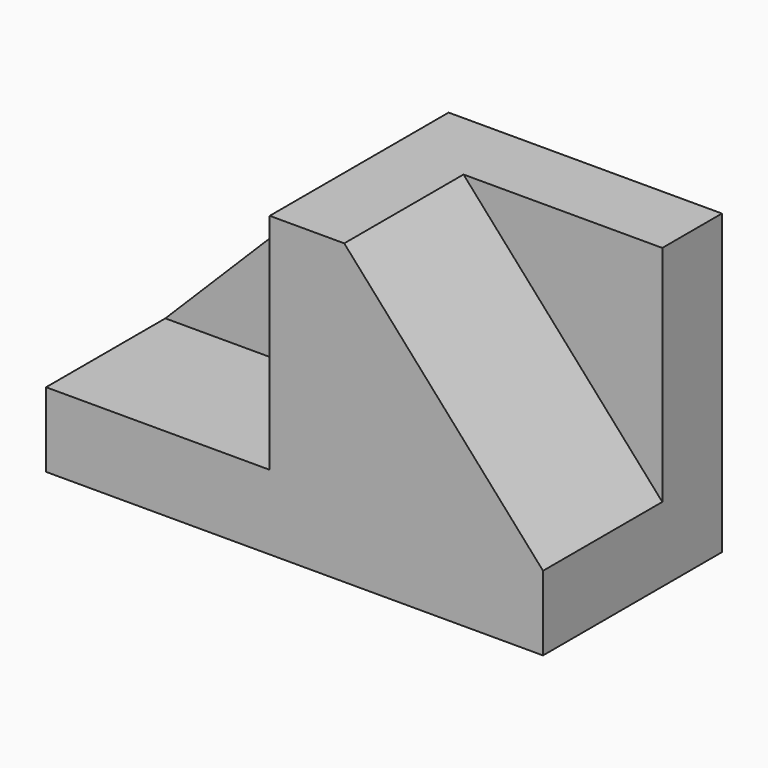
from build123d import *

# Parameters (mm, degrees)
F1_DEPTH = 45
F3_DEPTH = 30
F5_DEPTH = 30


with BuildPart() as f1:
    # F0 (on Front) → F1 (new body)
    with BuildSketch(Plane.XZ):
        Polygon((-17.689841, 40.544534), (-62.689841, -4.455466), (-62.689841, -19.455466), (37.310159, -19.455466), (37.310159, -4.455466), (37.310159, 40.544534), (-2.689841, 40.544534), align=None)
    extrude(amount=F1_DEPTH)

    # F2 (on face) → F3 (cut)
    with BuildSketch(Plane.XZ.offset(45)):
        Polygon((-17.689841, -4.455466), (-17.689841, 40.544534), (-62.689841, -4.455466), align=None)
    extrude(amount=-F3_DEPTH, mode=Mode.SUBTRACT)

    # F4 (on face) → F5 (cut)
    with BuildSketch(Plane.XZ.offset(45)):
        Polygon((37.310159, 40.544534), (-2.689841, 40.544534), (37.310159, -4.455466), align=None)
    extrude(amount=-F5_DEPTH, mode=Mode.SUBTRACT)


solid = f1.part
